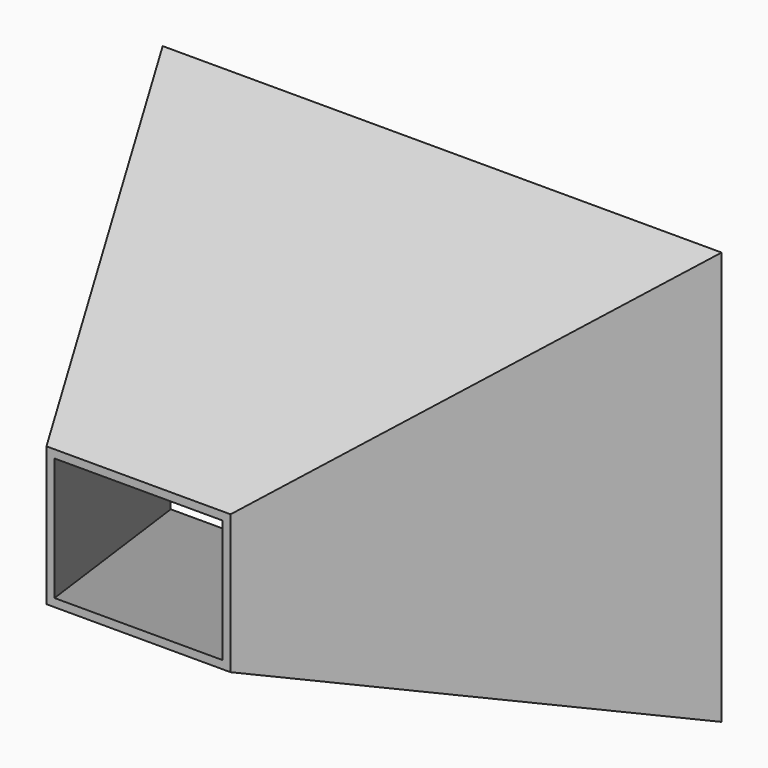
from build123d import *

# Parameters (mm, degrees)
F2_W = 98.552
F2_H = 74.422
F0_W = 299.212
F0_H = 221.234
F5_W = 290.576
F5_H = 212.598
F4_W = 89.916
F4_H = 65.786


with BuildPart() as f3:
    # F2 (on offset) → F3 section 0
    with BuildSketch(Plane.XZ.offset(203.2)):
        Rectangle(F2_W, F2_H)
    # F0 (on Front) → F3 section 1
    with BuildSketch(Plane.XZ):
        Rectangle(F0_W, F0_H)
    loft()

    # F5 (on face) → F6 section 0
    with BuildSketch(Plane(origin=(0, 0, 0), x_dir=(-1, 0, 0), z_dir=(0, 1, 0))):
        Rectangle(F5_W, F5_H)
    # F4 (on face) → F6 section 1
    with BuildSketch(Plane.XZ.offset(203.2)):
        Rectangle(F4_W, F4_H)
    loft(mode=Mode.SUBTRACT)


solid = f3.part
